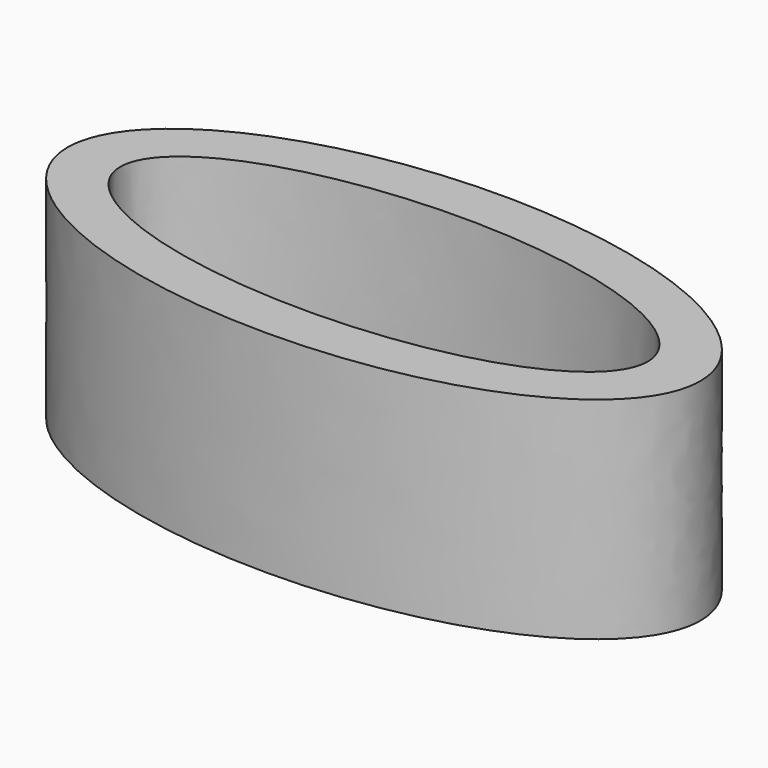
from build123d import *

# Parameters (mm, degrees)
F1_DEPTH = 25.4


with BuildPart() as f1:
    # F0 (on Top) → F1 (new body)
    with BuildSketch(Plane.XY):
        with BuildLine():
            add(Edge.make_bspline(
                [(-38.1, 0), (-38.1, -30.923954), (19.05, -15.461977), (76.2, 0), (19.05, 15.461977), (-38.1, 30.923954), (-38.1, 0)],
                knots=[0, 0, 0, 2.094395, 2.094395, 4.18879, 4.18879, 6.283185, 6.283185, 6.283185], degree=2, weights=[1, 0.5, 1, 0.5, 1, 0.5, 1]))
        make_face()
        with BuildLine():
            add(Edge.make_bspline(
                [(-31.75, 0), (-31.75, -20.769288), (15.875, -10.384644), (63.5, 0), (15.875, 10.384644), (-31.75, 20.769288), (-31.75, 0)],
                knots=[0, 0, 0, 2.094395, 2.094395, 4.18879, 4.18879, 6.283185, 6.283185, 6.283185], degree=2, weights=[1, 0.5, 1, 0.5, 1, 0.5, 1]))
        make_face(mode=Mode.SUBTRACT)
    extrude(amount=F1_DEPTH)


solid = f1.part
